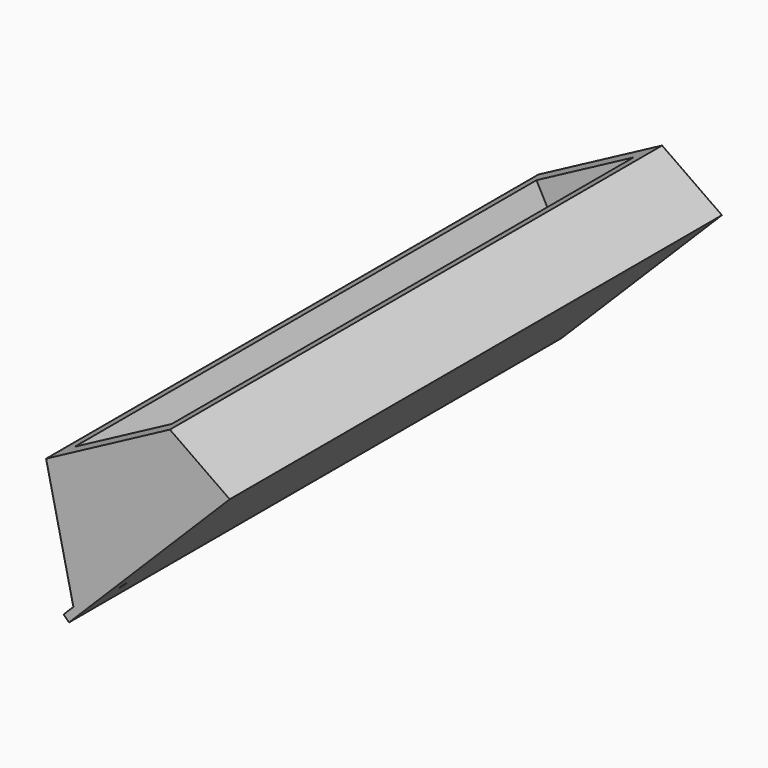
from build123d import *

# Parameters (mm, degrees)
F1_DEPTH = 508
F3_W     = 91.848578011
F3_H     = 482.6
F4_DEPTH = 50.8
F2_R     = 3.175
F5_DEPTH = 12.7
F6_DEPTH = 3.175
F7_DEPTH = 3.175


with BuildPart() as f1:
    # F0 (on Front) → F1 (new body)
    with BuildSketch(Plane.XZ):
        Polygon((31.3197647862, -27.9812486264), (35.8098928468, -32.4713766869), (170.1866526071, 101.9053830735), (120.1831479018, 136.9182140051), (16.6587981808, 81.8733408519), (39.4792327577, -19.8217806548), align=None)
    extrude(amount=F1_DEPTH)

    # F3 (on face) → F4 (cut)
    with BuildSketch(Plane(origin=(-30.2663796495, 0, 56.9227812171), x_dir=(0.8829475929, 0, 0.4694715628), z_dir=(-0.4694715628, 0, 0.8829475929))):
        with Locations((111.7703400394, -254)):
            Rectangle(F3_W, F3_H)
    extrude(amount=-F4_DEPTH, mode=Mode.SUBTRACT)

    # F2 (on face) → F5 (cut)
    with BuildSketch(Plane(origin=(34.1406347668, 0, -34.1406347668), x_dir=(0.7071067812, 0, 0.7071067812), z_dir=(0.7071067812, 0, -0.7071067812))):
        with Locations((38.4032874157, 486.6894)):
            Circle(F2_R)
    extrude(amount=-F5_DEPTH, mode=Mode.SUBTRACT)

    # F6 (add): a face of the model
    f6_faces = [f1.faces().sort_by_distance(p)[0] for p in [
        (82.8731770795, -508, 66.5046152241),
    ]]
    extrude(f6_faces, amount=F6_DEPTH)

    # F7 (add): a face of the model
    f7_faces = [f1.faces().sort_by_distance(p)[0] for p in [
        (82.8731770795, 0, 66.5046152241),
    ]]
    extrude(f7_faces, amount=F7_DEPTH)


solid = f1.part
